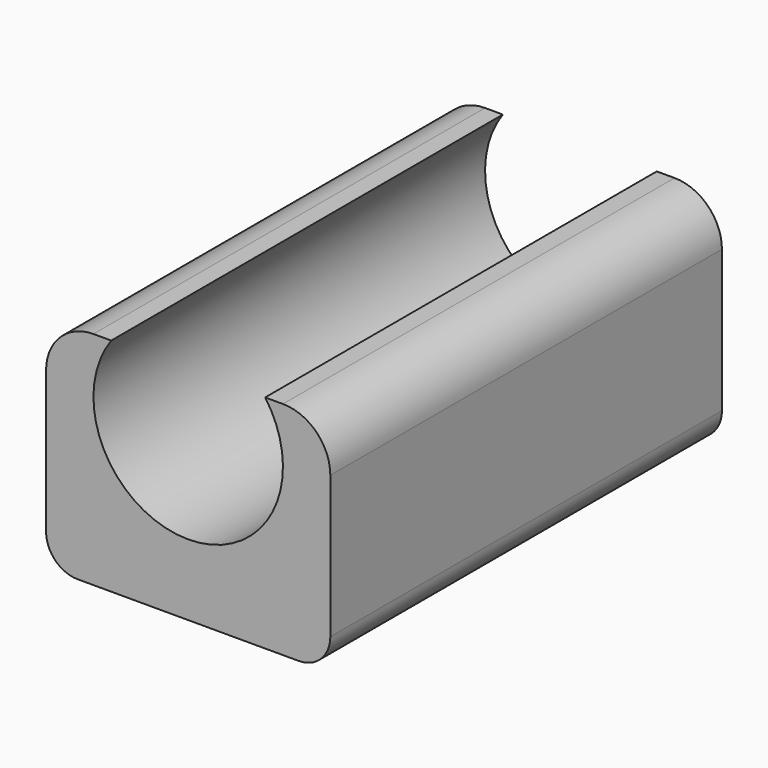
from build123d import *

# Parameters (mm, degrees)
SKETCH_W     = 18
SKETCH_H     = 14
PAD_DEPTH    = 15.5
FILLET_R     = 2
SKETCH001_R  = 6
POCKET_DEPTH = 31.001
FILLET001_R  = 3


with BuildPart() as part:
    # Sketch → Pad (new body, symmetric)
    with BuildSketch(Plane.XZ):
        Rectangle(SKETCH_W, SKETCH_H)
    extrude(amount=PAD_DEPTH, both=True)

    # Fillet
    fillet_edges = [part.edges().sort_by_distance(p)[0] for p in [
        (-9, 0, -7),
        (9, 0, -7),
    ]]
    fillet(fillet_edges, radius=FILLET_R)

    # Sketch001 → Pocket (cut, through all)
    with BuildSketch(Plane.XZ.offset(15.5)):
        with Locations((0, 3.5)):
            Circle(SKETCH001_R)
    extrude(amount=-POCKET_DEPTH, mode=Mode.SUBTRACT)

    # Fillet001
    fillet001_edges = [part.edges().sort_by_distance(p)[0] for p in [
        (9, 0, 7),
        (-9, 0, 7),
    ]]
    fillet(fillet001_edges, radius=FILLET001_R)


solid = part.part
